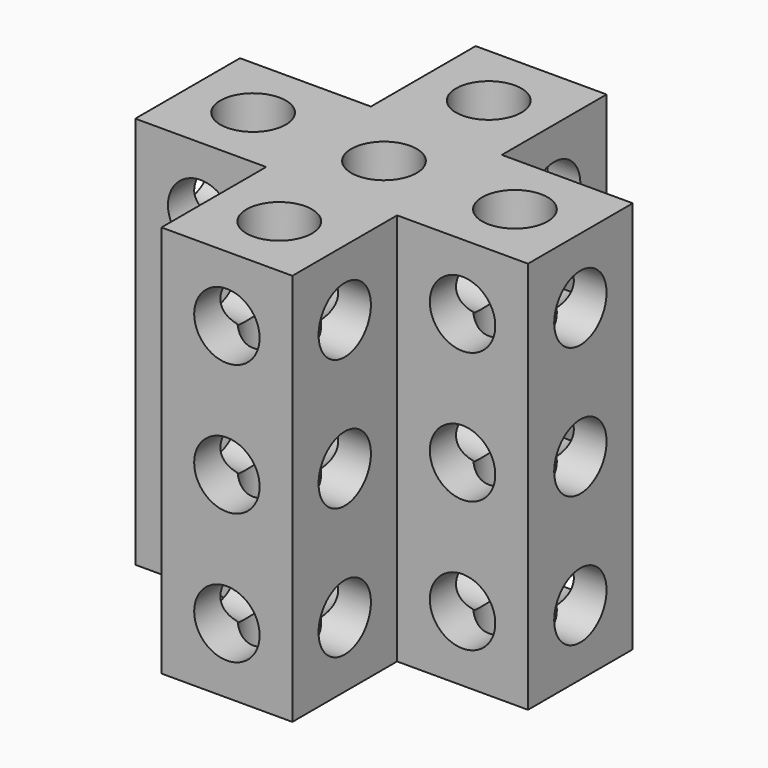
from build123d import *

# Parameters (mm, degrees)
F1_DEPTH = 152.4
F3_D     = 25.4
F5_D     = 25.4
F7_D     = 25.4
F9_D     = 25.4
F11_D    = 25.4
F13_D    = 25.4
F15_D    = 25.4
F17_D    = 25.4
F19_D    = 25.4
F21_D    = 25.4
F23_D    = 25.4
F25_D    = 25.4


with BuildPart() as f1:
    # F0 (on Top) → F1 (new body)
    with BuildSketch(Plane.XY):
        Polygon((14.308042, 51.492823), (14.308042, 102.292823), (-36.491958, 102.292823), (-36.491958, 51.492823), (-87.291958, 51.492823), (-87.291958, 0.692823), (-36.491958, 0.692823), (-36.491958, -50.107177), (14.308042, -50.107177), (14.308042, 0.692823), (65.108042, 0.692823), (65.108042, 51.492823), align=None)
    extrude(amount=F1_DEPTH)

    # F3 (through all)
    with Locations(Plane.XZ.offset(50.107177)):
        with Locations((-11.091958, 127)):
            Hole(F3_D / 2)

    # F5 (through all)
    with Locations(Plane.XZ.offset(50.107177)):
        with Locations((-11.091958, 76.2)):
            Hole(F5_D / 2)

    # F7 (through all)
    with Locations(Plane.XZ.offset(50.107177)):
        with Locations((-11.091958, 25.4)):
            Hole(F7_D / 2)

    # F9 (through all)
    with Locations(Plane.YZ.offset(65.108042)):
        with Locations((26.092823, 127)):
            Hole(F9_D / 2)

    # F11 (through all)
    with Locations(Plane.YZ.offset(65.108042)):
        with Locations((26.092823, 76.2)):
            Hole(F11_D / 2)

    # F13 (through all)
    with Locations(Plane.YZ.offset(65.108042)):
        with Locations((26.092823, 25.4)):
            Hole(F13_D / 2)

    # F15 (through all)
    with Locations(Plane.XY.offset(152.4)):
        with Locations((-11.091958, 26.092823)):
            Hole(F15_D / 2)

    # F17 (through all)
    with Locations(Plane.XY.offset(152.4)):
        with Locations((39.708042, 26.092823), (-61.891958, 26.092823)):
            Hole(F17_D / 2)

    # F19 (through all)
    with Locations(Plane.XZ.offset(-0.692823)):
        with Locations((39.708042, 127), (39.708042, 76.2), (39.708042, 25.4)):
            Hole(F19_D / 2)

    # F21 (through all)
    with Locations(Plane.XZ.offset(-0.692823)):
        with Locations((-61.891958, 127), (-61.891958, 76.2), (-61.891958, 25.4)):
            Hole(F21_D / 2)

    # F23 (through all)
    with Locations(Plane(origin=(-36.491958, 0, 0), x_dir=(0, -1, 0), z_dir=(-1, 0, 0))):
        with Locations((24.707177, 127), (24.707177, 76.2), (24.707177, 25.4), (-76.892823, 127), (-76.892823, 76.2), (-76.892823, 25.4)):
            Hole(F23_D / 2)

    # F25 (through all)
    with Locations(Plane.XY.offset(152.4)):
        with Locations((-11.091958, 76.892823), (-11.091958, -24.707177)):
            Hole(F25_D / 2)


solid = f1.part
